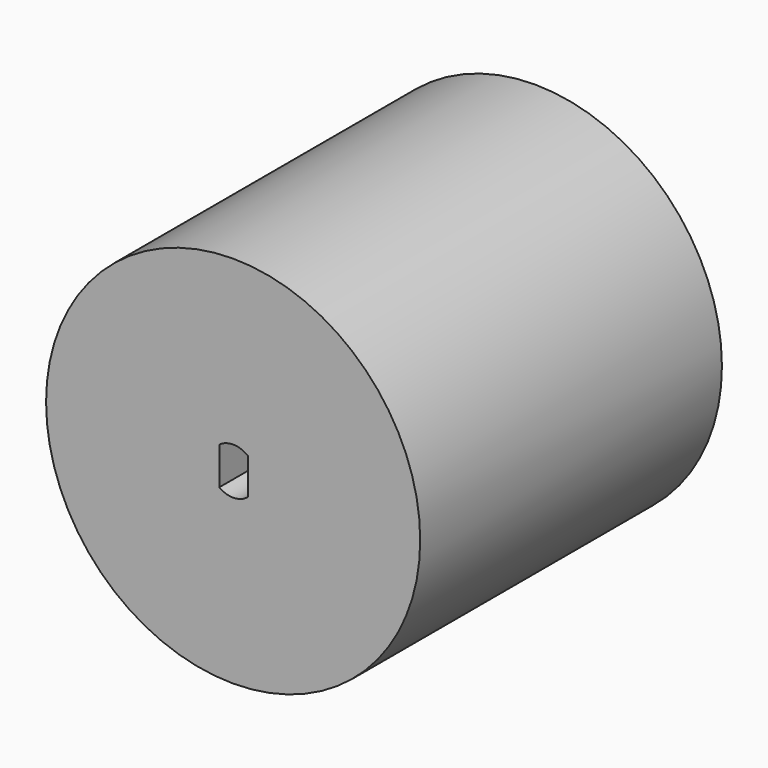
from build123d import *

# Parameters (mm, degrees)
F0_R     = 31.496
F1_DEPTH = 63.5
F2_DEPTH = 63.5
F3_DEPTH = 63.5


with BuildPart() as f1:
    # F0 (on Front) → F1 (new body)
    with BuildSketch(Plane.XZ):
        Circle(F0_R)
        with BuildLine():
            ThreePointArc((26.416, 0), (26.1371583003, -3.8280559015), (25.306519989, -7.5752955087))
            ThreePointArc((25.306519989, -7.5752955087), (22.8769270664, -13.208), (19.2136583462, -18.1284414375))
            ThreePointArc((19.2136583462, -18.1284414375), (0, -26.416), (-19.2136583462, -18.1284414375))
            ThreePointArc((-19.2136583462, -18.1284414375), (-22.9056297562, -13.1581602617), (-25.3392663756, -7.4650274981))
            ThreePointArc((-25.3392663756, -7.4650274981), (-22.8481158541, 13.2577772615), (-6.0928613417, 25.7037370176))
            ThreePointArc((-6.0928613417, 25.7037370176), (-4.8286381359, 25.9709320155), (-3.5528613417, 26.175985794))
            ThreePointArc((-3.5528613417, 26.175985794), (17.3774663113, 19.8954447199), (26.416, 0))
        make_face(mode=Mode.SUBTRACT)
    extrude(amount=F1_DEPTH)



with BuildPart() as f2:
    # F0 (on Front) → F2 (new body)
    with BuildSketch(Plane.XZ):
        with BuildLine():
            ThreePointArc((2.8770503286, -5.3743648375), (5.2297091125, -3.1323088287), (6.096, 0))
            ThreePointArc((6.096, 0), (5.3275135744, 2.9629065315), (3.2158113142, 5.1787810913))
            ThreePointArc((3.2158113142, 5.1787810913), (0.013272421, 6.0959855514), (-3.1932300386, 5.1927351098))
            ThreePointArc((-3.1932300386, 5.1927351098), (-3.3751638093, 5.0763653592), (-3.5528613417, 4.9536241568))
            ThreePointArc((-3.5528613417, 4.9536241568), (-5.3777045607, 2.8708029639), (-6.0928613417, 0.1955931265))
            ThreePointArc((-6.0928613417, 0.1955931265), (-5.2792932077, -3.0479959361), (-2.8770503286, -5.3743648375))
            ThreePointArc((-2.8770503286, -5.3743648375), (0, -6.096), (2.8770503286, -5.3743648375))
        make_face()
        with BuildLine():
            ThreePointArc((2.4892, 3.0502216903), (3.5566802921, 1.6881926134), (3.937, 0))
            ThreePointArc((3.937, 0), (3.5566802921, -1.6881926134), (2.4892, -3.0502216903))
            ThreePointArc((2.4892, -3.0502216903), (0.0964538394, -3.9358182957), (-2.3368, -3.1684909279))
            ThreePointArc((-2.3368, -3.1684909279), (-3.937, 0), (-2.3368, 3.1684909279))
            ThreePointArc((-2.3368, 3.1684909279), (0.0964538394, 3.9358182957), (2.4892, 3.0502216903))
        make_face(mode=Mode.SUBTRACT)
        with BuildLine():
            Line((-2.3368, -3.1684909279), (-2.3368, 3.1684909279))
            ThreePointArc((-2.3368, 3.1684909279), (-3.937, 0), (-2.3368, -3.1684909279))
        make_face()
        with BuildLine():
            ThreePointArc((2.4892, -3.0502216903), (3.5566802921, -1.6881926134), (3.937, 0))
            ThreePointArc((3.937, 0), (3.5566802921, 1.6881926134), (2.4892, 3.0502216903))
            Line((2.4892, 3.0502216903), (2.4892, -3.0502216903))
        make_face()
    extrude(amount=F2_DEPTH)


with BuildPart() as f1_1:
    add(f1.part)

    add(f2.part)  # F3 merges F2
    # F0 (on Front) → F3 (join)
    with BuildSketch(Plane.XZ):
        with BuildLine():
            Line((0, -7.0354306192), (2.8770503286, -5.3743648375))
            ThreePointArc((2.8770503286, -5.3743648375), (0, -6.096), (-2.8770503286, -5.3743648375))
            Line((-2.8770503286, -5.3743648375), (0, -7.0354306192))
        make_face()
        with BuildLine():
            Line((0, -7.0354306192), (-2.8770503286, -5.3743648375))
            ThreePointArc((-2.8770503286, -5.3743648375), (-5.2792932077, -3.0479959361), (-6.0928613417, 0.1955931265))
            Line((-6.0928613417, 0.1955931265), (-6.0928613417, 3.5354252361))
            Line((-6.0928613417, 3.5354252361), (-25.3392663756, -7.4650274981))
            ThreePointArc((-25.3392663756, -7.4650274981), (-22.9056297562, -13.1581602617), (-19.2136583462, -18.1284414375))
            Line((-19.2136583462, -18.1284414375), (0, -7.0354306192))
        make_face()
        with BuildLine():
            ThreePointArc((3.2158113142, 5.1787810913), (5.3275135744, 2.9629065315), (6.096, 0))
            ThreePointArc((6.096, 0), (5.2297091125, -3.1323088287), (2.8770503286, -5.3743648375))
            Line((2.8770503286, -5.3743648375), (0, -7.0354306192))
            Line((0, -7.0354306192), (19.2136583462, -18.1284414375))
            ThreePointArc((19.2136583462, -18.1284414375), (22.8769270664, -13.208), (25.306519989, -7.5752955087))
            Line((25.306519989, -7.5752955087), (3.2158113142, 5.1787810913))
        make_face()
        with BuildLine():
            ThreePointArc((-6.0928613417, 0.1955931265), (-5.3777045607, 2.8708029639), (-3.5528613417, 4.9536241568))
            Line((-3.5528613417, 4.9536241568), (-3.5528613417, 4.9871846631))
            Line((-3.5528613417, 4.9871846631), (-6.0928613417, 3.5354252361))
            Line((-6.0928613417, 3.5354252361), (-6.0928613417, 0.1955931265))
        make_face()
        with BuildLine():
            Line((-6.0928613417, 3.5354252361), (-3.5528613417, 4.9871846631))
            Line((-3.5528613417, 4.9871846631), (-3.5528613417, 26.175985794))
            ThreePointArc((-3.5528613417, 26.175985794), (-4.8286381359, 25.9709320155), (-6.0928613417, 25.7037370176))
            Line((-6.0928613417, 25.7037370176), (-6.0928613417, 3.5354252361))
        make_face()
        with BuildLine():
            Line((0, -7.0354306192), (-2.8770503286, -5.3743648375))
            ThreePointArc((-2.8770503286, -5.3743648375), (-5.2792932077, -3.0479959361), (-6.0928613417, 0.1955931265))
            Line((-6.0928613417, 0.1955931265), (-6.0928613417, 3.5354252361))
            Line((-6.0928613417, 3.5354252361), (-25.3392663756, -7.4650274981))
            ThreePointArc((-25.3392663756, -7.4650274981), (-22.9056297562, -13.1581602617), (-19.2136583462, -18.1284414375))
            Line((-19.2136583462, -18.1284414375), (0, -7.0354306192))
        make_face()
        with BuildLine():
            Line((-25.3392663756, -7.4650274981), (-6.0928613417, 3.5354252361))
            Line((-6.0928613417, 3.5354252361), (-6.0928613417, 25.7037370176))
            ThreePointArc((-6.0928613417, 25.7037370176), (-22.8481158541, 13.2577772615), (-25.3392663756, -7.4650274981))
        make_face()
        with BuildLine():
            ThreePointArc((-3.1932300386, 5.1927351098), (0.013272421, 6.0959855514), (3.2158113142, 5.1787810913))
            Line((3.2158113142, 5.1787810913), (25.306519989, -7.5752955087))
            ThreePointArc((25.306519989, -7.5752955087), (26.1371583003, -3.8280559015), (26.416, 0))
            ThreePointArc((26.416, 0), (17.3774663113, 19.8954447199), (-3.5528613417, 26.175985794))
            Line((-3.5528613417, 26.175985794), (-3.5528613417, 4.9871846631))
            Line((-3.5528613417, 4.9871846631), (-3.1932300386, 5.1927351098))
        make_face()
        with BuildLine():
            ThreePointArc((-3.5528613417, 4.9536241568), (-3.3751638093, 5.0763653592), (-3.1932300386, 5.1927351098))
            Line((-3.1932300386, 5.1927351098), (-3.5528613417, 4.9871846631))
            Line((-3.5528613417, 4.9871846631), (-3.5528613417, 4.9536241568))
        make_face()
        with BuildLine():
            ThreePointArc((3.2158113142, 5.1787810913), (5.3275135744, 2.9629065315), (6.096, 0))
            ThreePointArc((6.096, 0), (5.2297091125, -3.1323088287), (2.8770503286, -5.3743648375))
            Line((2.8770503286, -5.3743648375), (0, -7.0354306192))
            Line((0, -7.0354306192), (19.2136583462, -18.1284414375))
            ThreePointArc((19.2136583462, -18.1284414375), (22.8769270664, -13.208), (25.306519989, -7.5752955087))
            Line((25.306519989, -7.5752955087), (3.2158113142, 5.1787810913))
        make_face()
        with BuildLine():
            Line((19.2136583462, -18.1284414375), (0, -7.0354306192))
            Line((0, -7.0354306192), (-19.2136583462, -18.1284414375))
            ThreePointArc((-19.2136583462, -18.1284414375), (0, -26.416), (19.2136583462, -18.1284414375))
        make_face()
        with BuildLine():
            Line((0, -7.0354306192), (-2.8770503286, -5.3743648375))
            ThreePointArc((-2.8770503286, -5.3743648375), (-5.2792932077, -3.0479959361), (-6.0928613417, 0.1955931265))
            Line((-6.0928613417, 0.1955931265), (-6.0928613417, 3.5354252361))
            Line((-6.0928613417, 3.5354252361), (-25.3392663756, -7.4650274981))
            ThreePointArc((-25.3392663756, -7.4650274981), (-22.9056297562, -13.1581602617), (-19.2136583462, -18.1284414375))
            Line((-19.2136583462, -18.1284414375), (0, -7.0354306192))
        make_face()
        with BuildLine():
            ThreePointArc((-3.1932300386, 5.1927351098), (0.013272421, 6.0959855514), (3.2158113142, 5.1787810913))
            Line((3.2158113142, 5.1787810913), (25.306519989, -7.5752955087))
            ThreePointArc((25.306519989, -7.5752955087), (26.1371583003, -3.8280559015), (26.416, 0))
            ThreePointArc((26.416, 0), (17.3774663113, 19.8954447199), (-3.5528613417, 26.175985794))
            Line((-3.5528613417, 26.175985794), (-3.5528613417, 4.9871846631))
            Line((-3.5528613417, 4.9871846631), (-3.1932300386, 5.1927351098))
        make_face()
    extrude(amount=F3_DEPTH)


solid = f1_1.part
